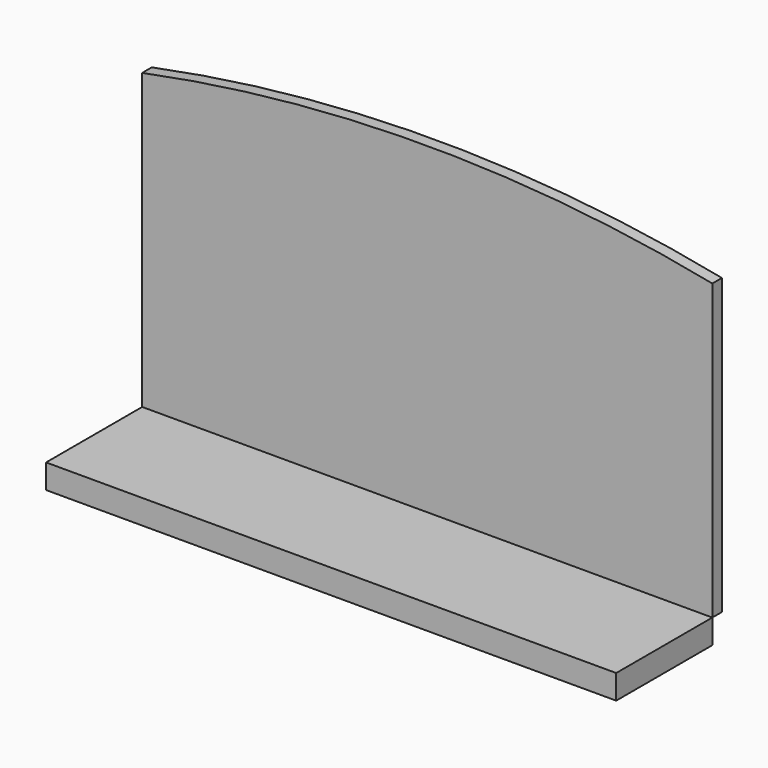
from build123d import *

# Parameters (mm, degrees)
F1_DEPTH = 2.54
F0_W     = 120.5512695014
F0_H     = 5.1480969414
F2_DEPTH = 25.4


with BuildPart() as f1:
    # F0 (on Front) → F1 (new body)
    with BuildSketch(Plane.XZ):
        with BuildLine():
            Line((-46.8543358147, 52.8087764978), (-46.8543358147, -9.3760499731))
            Line((-46.8543358147, -9.3760499731), (73.6969336867, -9.3760499731))
            Line((73.6969336867, -9.3760499731), (73.6969336867, 52.8087764978))
            ThreePointArc((73.6969336867, 52.8087764978), (13.421298936, 58.8362939641), (-46.8543358147, 52.8087764978))
        make_face()
    extrude(amount=-F1_DEPTH)

    # F0 (on Front) → F2 (join)
    with BuildSketch(Plane.XZ):
        with Locations((13.421298936, -11.9500984438)):
            Rectangle(F0_W, F0_H)
    extrude(amount=F2_DEPTH)


solid = f1.part
